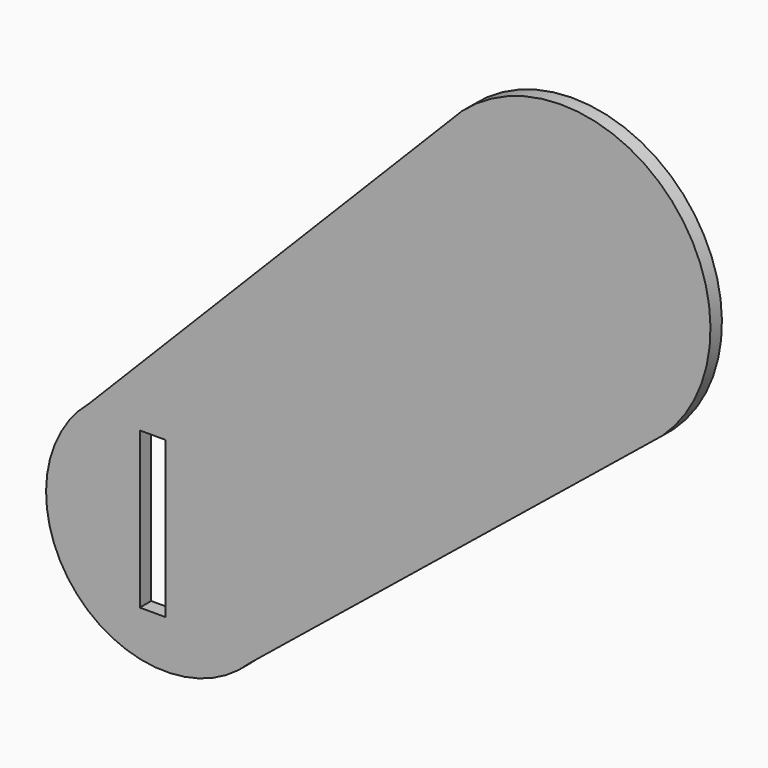
from build123d import *

# Parameters (mm, degrees)
F0_W     = 5.463624
F0_H     = 33.239889
F1_DEPTH = 3.048


with BuildPart() as f1:
    # F0 (on Front) → F1 (new body)
    with BuildSketch(Plane.XZ):
        with BuildLine():
            Line((-16.085081, -46.69949), (30.212463, -9.187675))
            Line((30.212463, -9.187675), (-6.348512, 26.804171))
            Line((-6.348512, 26.804171), (-46.149795, -13.626478))
            ThreePointArc((-46.149795, -13.626478), (-48.528478, -45.990328), (-16.085081, -46.69949))
        make_face()
        with Locations((-34.701821, -29.527813)):
            Rectangle(F0_W, F0_H, mode=Mode.SUBTRACT)
        with BuildLine():
            ThreePointArc((-48.211088, -11.375628), (-50.784606, -48.039767), (-14.041956, -48.966988))
            Line((-14.041956, -48.966988), (32.398332, -11.339518))
            Line((32.398332, -11.339518), (30.212463, -9.187675))
            Line((30.212463, -9.187675), (-16.085081, -46.69949))
            ThreePointArc((-16.085081, -46.69949), (-48.528478, -45.990328), (-46.149795, -13.626478))
            Line((-46.149795, -13.626478), (-6.348512, 26.804171))
            Line((-6.348512, 26.804171), (-8.520614, 28.942461))
            Line((-8.520614, 28.942461), (-48.211088, -11.375628))
        make_face()
        with BuildLine():
            Line((-6.348512, 26.804171), (30.212463, -9.187675))
            Line((30.212463, -9.187675), (71.887948, 24.579194))
            ThreePointArc((71.887948, 24.579194), (73.656996, 64.974925), (33.276104, 67.05536))
            Line((33.276104, 67.05536), (-6.348512, 26.804171))
        make_face()
        with BuildLine():
            Line((30.212463, -9.187675), (32.398332, -11.339518))
            Line((32.398332, -11.339518), (73.881276, 22.271349))
            ThreePointArc((73.881276, 22.271349), (75.913127, 67.02436), (31.169861, 69.260549))
            Line((31.169861, 69.260549), (-8.520614, 28.942461))
            Line((-8.520614, 28.942461), (-6.348512, 26.804171))
            Line((-6.348512, 26.804171), (33.276104, 67.05536))
            ThreePointArc((33.276104, 67.05536), (73.656996, 64.974925), (71.887948, 24.579194))
            Line((71.887948, 24.579194), (30.212463, -9.187675))
        make_face()
    extrude(amount=-F1_DEPTH)


solid = f1.part
